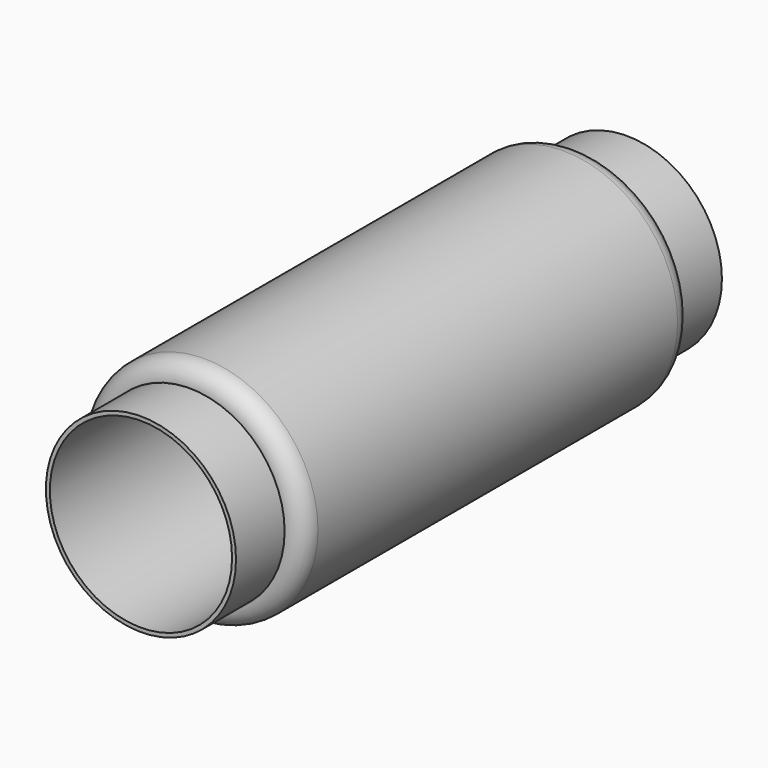
from build123d import *

# Parameters (mm, degrees)
F0_R     = 39.751
F0_R_2   = 38.1
F1_DEPTH = 127
F2_R     = 47.625
F2_R_2   = 39.751
F3_DEPTH = 101.6
F4_R     = 7.62


with BuildPart() as f1:
    # F0 (on Front) → F1 (new body, symmetric)
    with BuildSketch(Plane.XZ):
        Circle(F0_R)
        Circle(F0_R_2, mode=Mode.SUBTRACT)
    extrude(amount=F1_DEPTH, both=True)

    # F2 (on Front) → F3 (join, symmetric)
    with BuildSketch(Plane.XZ):
        Circle(F2_R)
        Circle(F2_R_2, mode=Mode.SUBTRACT)
    extrude(amount=F3_DEPTH, both=True)

    # F4
    f4_edges = [f1.edges().sort_by_distance(p)[0] for p in [
        (-47.625, -101.6, 0),
        (-47.625, 101.6, 0),
    ]]
    fillet(f4_edges, radius=F4_R)


solid = f1.part
